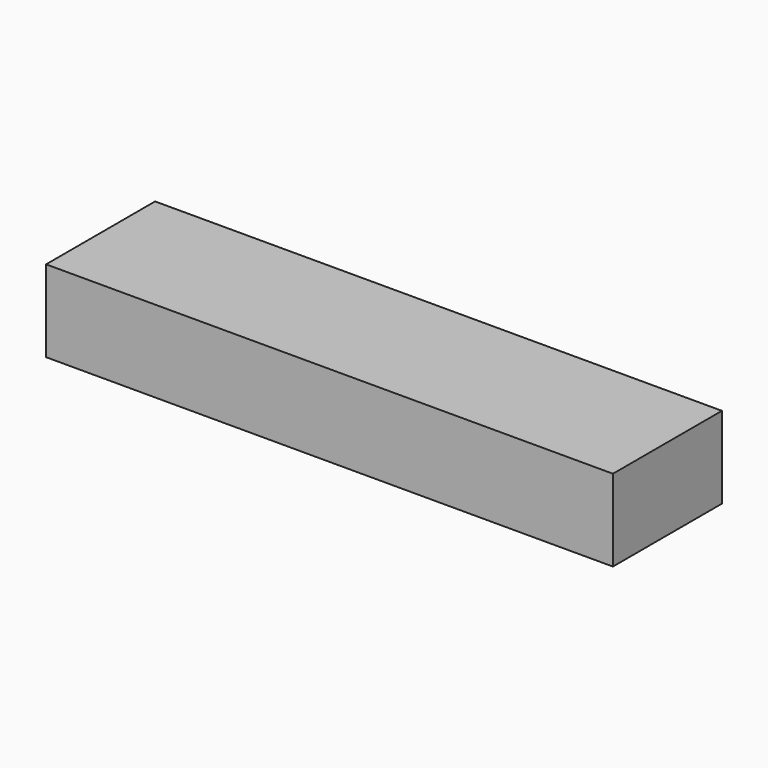
from build123d import *

# Parameters (mm, degrees)
F0_W     = 63.5
F0_H     = 38.1
F1_DEPTH = 132.08
F2_W     = 12.192
F2_H     = 4.572
F3_DEPTH = 1.27


with BuildPart() as f1:
    # F0 (on Right) → F1 (new body, symmetric)
    with BuildSketch(Plane.YZ):
        Rectangle(F0_W, F0_H)
    extrude(amount=F1_DEPTH, both=True)

    # F2 (on face) → F3 (join)
    with BuildSketch(Plane(origin=(0, 31.75, 0), x_dir=(-1, 0, 0), z_dir=(0, 1, 0))):
        with Locations((-63.034566, -0.225544)):
            Rectangle(F2_W, F2_H)
        Polygon((-6.334301, 2.060456), (-6.334301, -2.511544), (6.365699, -2.511544), (6.365699, 2.568456), (5.857699, 2.568456), (-6.334301, 2.568456), align=None)
        Polygon((68.733813, -2.511544), (68.733813, 2.568456), (68.225813, 2.568456), (56.033813, 2.568456), (56.033813, 2.060456), (56.033813, -2.511544), align=None)
    extrude(amount=F3_DEPTH)


solid = f1.part
